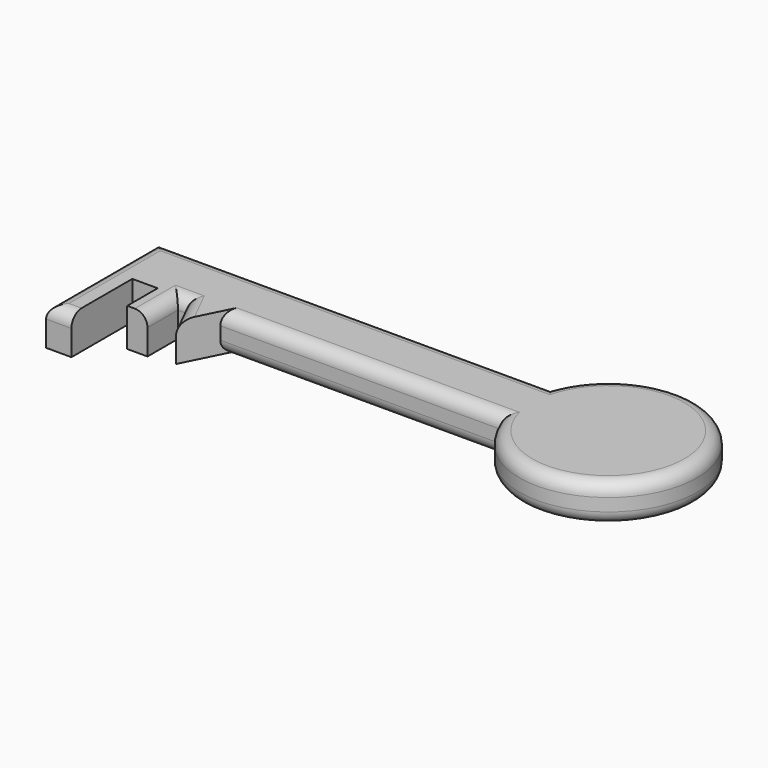
from build123d import *

# Parameters (mm, degrees)
F0_W     = 10
F0_H     = 30
F0_W_2   = 8
F0_H_2   = 15
F1_DEPTH = 15
F2_R     = 5


with BuildPart() as f1:
    # F0 (on Top) → F1 (new body)
    with BuildSketch(Plane.XY):
        with BuildLine():
            ThreePointArc((117, -13.1335928523), (184.6917420766, -0.6335928523), (117, 11.8664071477))
            Line((117, 11.8664071477), (117, -0.5232350183))
            Line((117, -0.5232350183), (117, -13.1335928523))
        make_face()
        with BuildLine():
            ThreePointArc((167.1917420766, -0.6335928523), (149.6622047421, -18.133567925), (132.1918417856, -0.5745182675))
            ThreePointArc((132.1918417856, -0.5745182675), (149.721279411, 16.8663822204), (167.1917420766, -0.6335928523))
        make_face(mode=Mode.SUBTRACT)
        Polygon((117, -0.5232350183), (-38, 0), (-38, -13.1335928523), (-28, -13.1335928523), (-18, -13.1335928523), (-10, -13.1335928523), (-6.7082043002, -13.1335928523), (6.7082043002, -13.1335928523), (117, -13.1335928523), align=None)
        Polygon((117, 11.8664071477), (-38, 11.8664071477), (-38, 0), (117, -0.5232350183), align=None)
        with BuildLine():
            ThreePointArc((167.1917420766, -0.6335928523), (149.721279411, 16.8663822204), (132.1918417856, -0.5745182675))
            ThreePointArc((132.1918417856, -0.5745182675), (149.6622047421, -18.133567925), (167.1917420766, -0.6335928523))
        make_face()
        with Locations((-33, -28.1335928523)):
            Rectangle(F0_W, F0_H)
        with Locations((-14, -20.6335928523)):
            Rectangle(F0_W_2, F0_H_2)
        Polygon((0, -26.5500005335), (6.7082043002, -13.1335928523), (-6.7082043002, -13.1335928523), align=None)
    extrude(amount=F1_DEPTH)

    # F2
    f2_edges = [f1.edges().sort_by_distance(p)[0] for p in [
        (39.5, 11.866407, 15),
        (61.854102, -13.133593, 15),
        (184.691742, -0.633593, 15),
        (-3.354102, -19.841797, 15),
        (-8.354102, -13.133593, 15),
        (-10, -20.633593, 15),
        (-33, -43.133593, 15),
        (-38, -15.633593, 15),
        (39.5, 11.866407, 0),
        (184.691742, -0.633593, 0),
        (61.854102, -13.133593, 0),
    ]]
    fillet(f2_edges, radius=F2_R)


solid = f1.part
